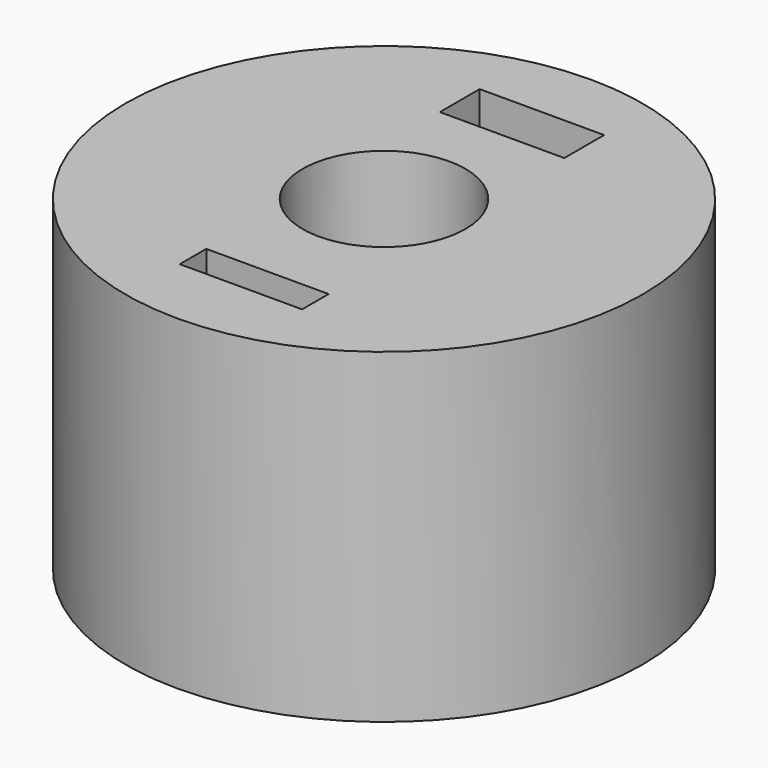
from build123d import *

# Parameters (mm, degrees)
F0_R     = 4.7625
F0_W     = 2.253551
F0_H     = 0.611133
F0_R_2   = 1.5
F0_W_2   = 2.291747
F0_H_2   = 0.916698
F1_DEPTH = 6


with BuildPart() as f1:
    # F0 (on Top) → F1 (new body)
    with BuildSketch(Plane.XY):
        Circle(F0_R)
        with Locations((0.101822, -3.115219)):
            Rectangle(F0_W, F0_H, mode=Mode.SUBTRACT)
        Circle(F0_R_2, mode=Mode.SUBTRACT)
        with Locations((0.082723, 3.072497)):
            Rectangle(F0_W_2, F0_H_2, mode=Mode.SUBTRACT)
    extrude(amount=F1_DEPTH)


solid = f1.part
